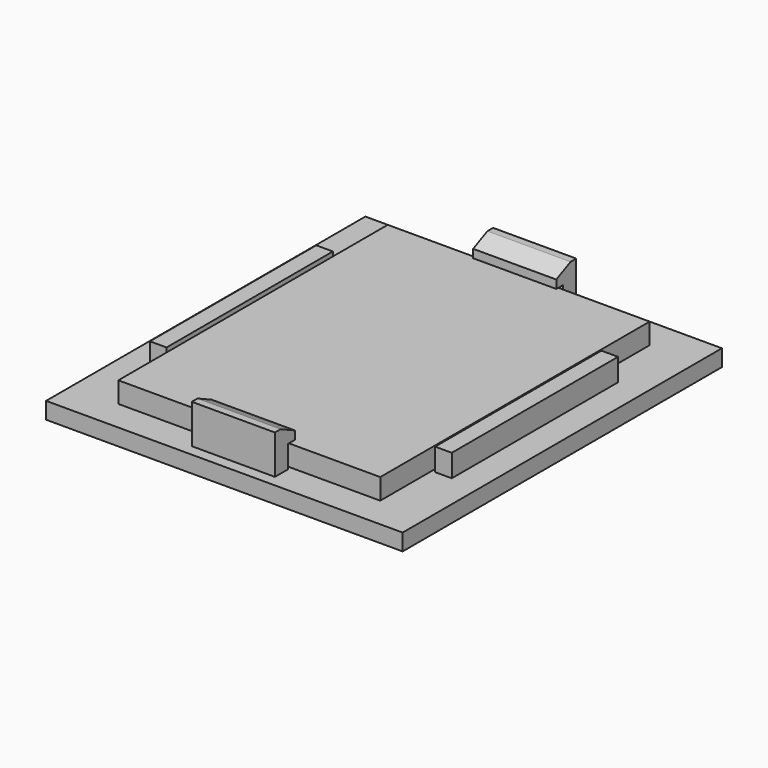
from build123d import *

# Parameters (mm, degrees)
F0_W     = 31.5
F0_H     = 40.5
F1_DEPTH = 2.5
F2_W     = 2
F2_H     = 25
F3_DEPTH = 2.7
F2_W_2   = 10
F2_H_2   = 2
F4_W     = 42.88
F4_H     = 48
F5_DEPTH = 2
F6_W     = 10
F6_H     = 3
F7_DEPTH = 2
F8_SIZE2 = 2.1445069205
F8_SIZE  = 1
F9_SIZE2 = 2.1445069205
F9_SIZE  = 1


with BuildPart() as f1:
    # F0 (on Top) → F1 (new body)
    with BuildSketch(Plane.XY):
        Rectangle(F0_W, F0_H)
    extrude(amount=F1_DEPTH)


with BuildPart() as f3:
    # F2 (on Top) → F3 (new body)
    with BuildSketch(Plane.XY):
        with Locations((17.15, 0)):
            Rectangle(F2_W, F2_H)
    extrude(amount=F3_DEPTH)



with BuildPart() as f3b:
    # F2 (on Top) → F3, piece 2 (new body)
    with BuildSketch(Plane.XY):
        with Locations((0, -21.65)):
            Rectangle(F2_W_2, F2_H_2)
    extrude(amount=F3_DEPTH)


with BuildPart() as f3c:
    # F2 (on Top) → F3, piece 3 (new body)
    with BuildSketch(Plane.XY):
        with Locations((-17.15, 0)):
            Rectangle(F2_W, F2_H)
    extrude(amount=F3_DEPTH)


with BuildPart() as f3d:
    # F2 (on Top) → F3, piece 4 (new body)
    with BuildSketch(Plane.XY):
        with Locations((0, 21.65)):
            Rectangle(F2_W_2, F2_H_2)
    extrude(amount=F3_DEPTH)


with BuildPart() as f3_1:
    add(f3.part)

    add(f3b.part)  # F5 merges F3b

    add(f3c.part)  # F5 merges F3c

    add(f3d.part)  # F5 merges F3d
    # F4 (on Top) → F5 (join)
    with BuildSketch(Plane.XY):
        Rectangle(F4_W, F4_H)
    extrude(amount=-F5_DEPTH)

    # F6 (on face) → F7 (join)
    with BuildSketch(Plane.XY.offset(2.7)):
        with Locations((0, -21.15)):
            Rectangle(F6_W, F6_H)
        with Locations((0, 21.15)):
            Rectangle(F6_W, F6_H)
    extrude(amount=F7_DEPTH)

    # F8
    f8_edges = [f3_1.edges().sort_by_distance(p)[0] for p in [
        (0, 19.65, 4.7),
    ]]
    f8_side = f3_1.faces().sort_by_distance((0, 19.65, 3.7))[0]
    chamfer(f8_edges, length=F8_SIZE, length2=F8_SIZE2, reference=f8_side)

    # F9
    f9_edges = [f3_1.edges().sort_by_distance(p)[0] for p in [
        (0, -19.65, 4.7),
    ]]
    f9_side = f3_1.faces().sort_by_distance((0, -19.65, 3.7))[0]
    chamfer(f9_edges, length=F9_SIZE, length2=F9_SIZE2, reference=f9_side)


solid = Compound([f1.part, f3_1.part])
